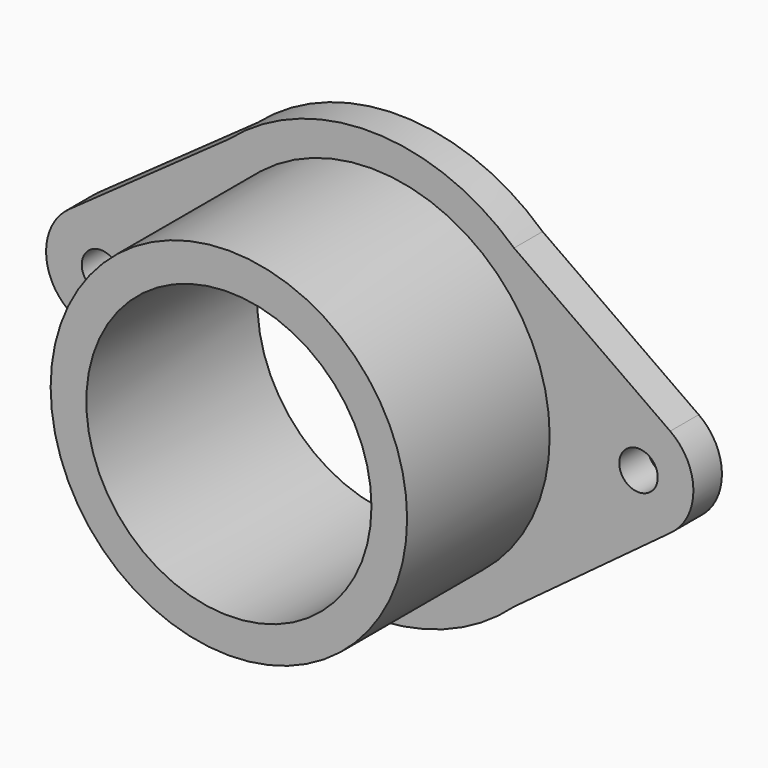
from build123d import *

# Parameters (mm, degrees)
F0_R     = 3.429
F0_R_2   = 31.75
F1_DEPTH = 6.35
F0_R_3   = 25.4
F2_DEPTH = 38.1


with BuildPart() as f1:
    # F0 (on Front) → F1 (new body)
    with BuildSketch(Plane.XZ):
        with BuildLine():
            Line((53.214374, 7.983912), (25.4, 27.656138))
            ThreePointArc((25.4, 27.656138), (0.105444, 37.634877), (-25.4, 28.208205))
            Line((-25.4, 28.208205), (-53.8531, 7.968619))
            ThreePointArc((-53.8531, 7.968619), (-57.963221, 0.103714), (-54.020843, -7.846598))
            Line((-54.020843, -7.846598), (-25.4, -29.133952))
            ThreePointArc((-25.4, -29.133952), (0.105444, -38.560624), (25.4, -28.581885))
            Line((25.4, -28.581885), (53.386849, -7.859087))
            ThreePointArc((53.386849, -7.859087), (57.346026, 0.106453), (53.214374, 7.983912))
        make_face()
        with Locations((-48.184771, 0)):
            Circle(F0_R, mode=Mode.SUBTRACT)
        with Locations((0, 0.154291)):
            Circle(F0_R_2, mode=Mode.SUBTRACT)
        with Locations((47.567606, 0)):
            Circle(F0_R, mode=Mode.SUBTRACT)
    extrude(amount=F1_DEPTH)


with BuildPart() as f2:
    # F0 (on Front) → F2 (new body)
    with BuildSketch(Plane.XZ):
        with Locations((0, 0.154291)):
            Circle(F0_R_2)
        Circle(F0_R_3, mode=Mode.SUBTRACT)
    extrude(amount=F2_DEPTH)


solid = Compound([f1.part, f2.part])
